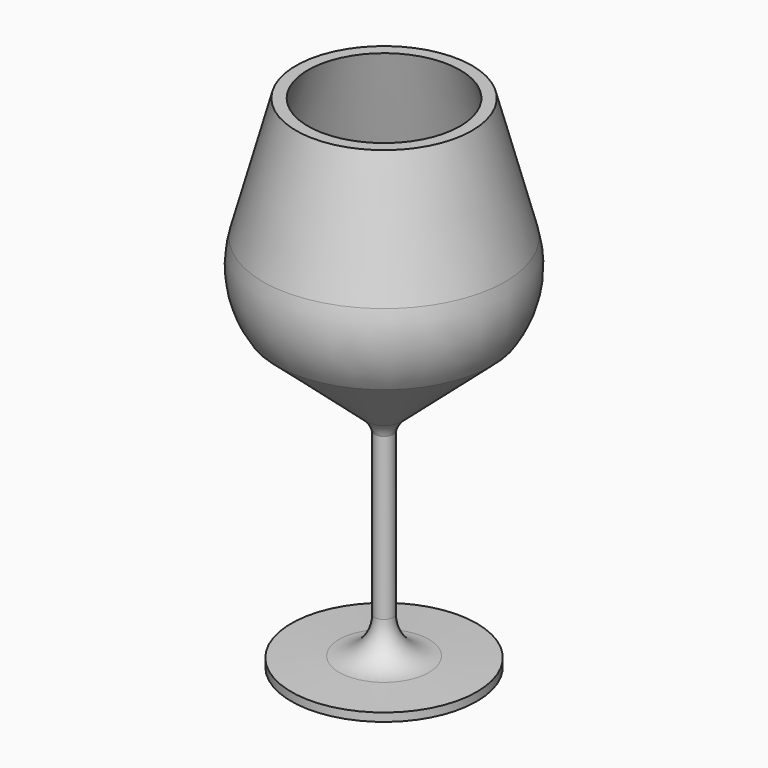
from build123d import *


with BuildPart() as f1:
    # F0 (on Front) → F1 (revolve)
    with BuildSketch(Plane.XZ):
        with BuildLine():
            Line((11.530839, 36.909778), (8.377308, 48.545218))
            Line((8.377308, 48.545218), (7.237623, 48.545218))
            Line((7.237623, 48.545218), (10.469142, 36.622028))
            ThreePointArc((10.469142, 36.622028), (10.644584, 33.299521), (9.438111, 30.198835))
            Line((9.438111, 30.198835), (0.794426, 22.659409))
            ThreePointArc((0.794426, 22.659409), (0.424202, 22.438515), (0, 22.361623))
            Line((0, 22.361623), (0, 0.875514))
            Line((0, 0.875514), (8.827639, 0.875514))
            Line((8.827639, 0.875514), (8.827639, 1.66595))
            Line((8.827639, 1.66595), (4.268712, 1.817272))
            ThreePointArc((4.268712, 1.817272), (1.867439, 2.882665), (0.882294, 5.317959))
            Line((0.882294, 5.317959), (0.882294, 20.650616))
            ThreePointArc((0.882294, 20.650616), (1.191417, 21.38592), (1.706291, 21.995127))
            Line((1.706291, 21.995127), (10.27026, 29.465022))
            ThreePointArc((10.27026, 29.465022), (11.718112, 33.048966), (11.530839, 36.909778))
        make_face()
    revolve(axis=Axis((0, 0, 23.284463), (0, 0, -1)))


solid = f1.part
